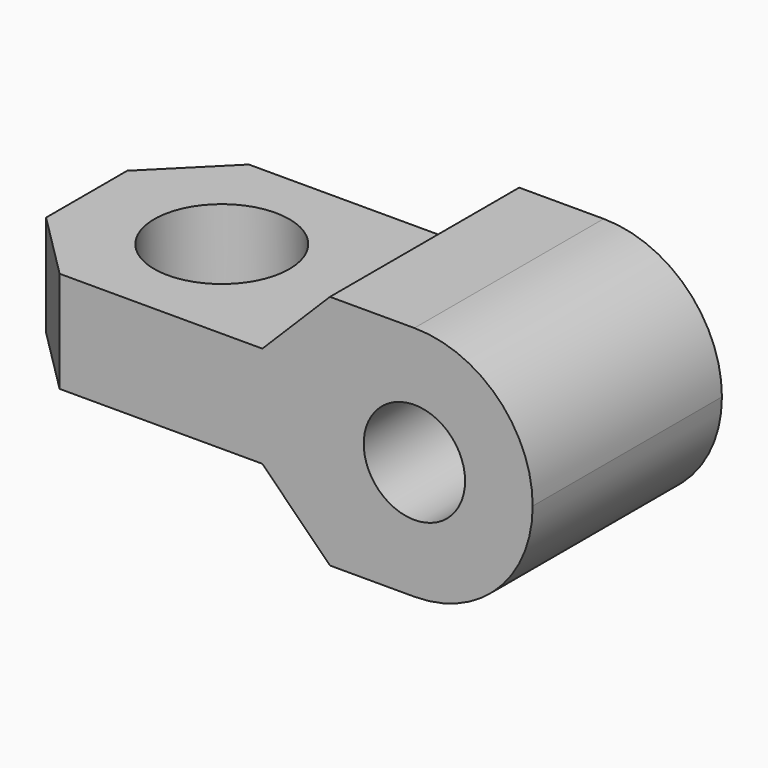
from build123d import *

# Parameters (mm, degrees)
F1_DEPTH = 1.5
F3_DEPTH = 7
F4_R     = 1.5
F5_DEPTH = 7.001
F6_R     = 2
F7_DEPTH = 5.001
F9_DEPTH = 7.001


with BuildPart() as f1:
    # F0 (on Top) → F1 (new body, symmetric)
    with BuildSketch(Plane.XY):
        Polygon((-1.090006, 3.5), (-3.090006, 1.5), (-3.090006, -1.5), (-1.090006, -3.5), (12.909994, -3.5), (12.909994, 3.5), align=None)
    extrude(amount=F1_DEPTH, both=True)

    # F2 (on face) → F3 (join)
    with BuildSketch(Plane.XZ.offset(3.5)):
        Polygon((6.909994, 3.5), (4.909994, 1.5), (12.909994, 1.5), (12.909994, 3.5), align=None)
        Polygon((12.909994, -1.5), (4.909994, -1.5), (6.909994, -3.5), (12.909994, -3.5), align=None)
    extrude(amount=-F3_DEPTH)

    # F4 (on face) → F5 (cut, through all)
    with BuildSketch(Plane.XZ.offset(3.5)):
        with Locations((9.409994, 0)):
            Circle(F4_R)
    extrude(amount=-F5_DEPTH, mode=Mode.SUBTRACT)

    # F6 (on face) → F7 (cut, through all)
    with BuildSketch(Plane.XY.offset(1.5)):
        with Locations((0.909994, 0)):
            Circle(F6_R)
    extrude(amount=-F7_DEPTH, mode=Mode.SUBTRACT)

    # F8 (on face) → F9 (cut, through all)
    with BuildSketch(Plane.XZ.offset(3.5)):
        with BuildLine():
            ThreePointArc((9.409994, 3.5), (11.884868, 2.474874), (12.909994, 0))
            Line((12.909994, 0), (12.909994, 3.5))
            Line((12.909994, 3.5), (9.409994, 3.5))
        make_face()
        with BuildLine():
            ThreePointArc((12.909994, 0), (11.884868, -2.474874), (9.409994, -3.5))
            Line((9.409994, -3.5), (12.909994, -3.5))
            Line((12.909994, -3.5), (12.909994, 0))
        make_face()
    extrude(amount=-F9_DEPTH, mode=Mode.SUBTRACT)


solid = f1.part
